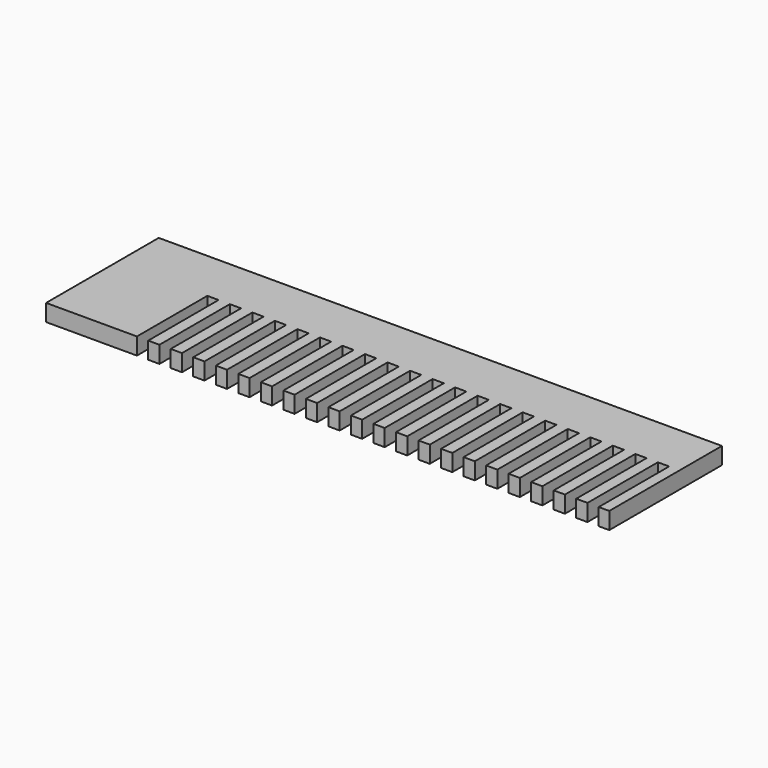
from build123d import *

# Parameters (mm, degrees)
F0_W     = 100
F0_H     = 25
F1_DEPTH = 3
F2_W     = 2
F2_H     = 21.208797
F3_DEPTH = 25


with BuildPart() as f1:
    # F0 (on Top) → F1 (new body)
    with BuildSketch(Plane.XY):
        with Locations((8.08065, 35.752659)):
            Rectangle(F0_W, F0_H)
    extrude(amount=F1_DEPTH)

    # F2 (on face) → F3 (cut)
    with BuildSketch(Plane.XY.offset(3)):
        with Locations((-24.790619, 28.26475)):
            Rectangle(F2_W, F2_H)
        with Locations((-20.790619, 28.26475)):
            Rectangle(F2_W, F2_H)
        with Locations((-16.790619, 28.26475)):
            Rectangle(F2_W, F2_H)
        with Locations((-12.790619, 28.26475)):
            Rectangle(F2_W, F2_H)
        with Locations((-8.790619, 28.26475)):
            Rectangle(F2_W, F2_H)
        with Locations((-4.790619, 28.26475)):
            Rectangle(F2_W, F2_H)
        with Locations((-0.790619, 28.26475)):
            Rectangle(F2_W, F2_H)
        with Locations((3.209381, 28.26475)):
            Rectangle(F2_W, F2_H)
        with Locations((7.209381, 28.26475)):
            Rectangle(F2_W, F2_H)
        with Locations((11.209381, 28.26475)):
            Rectangle(F2_W, F2_H)
        with Locations((15.209381, 28.26475)):
            Rectangle(F2_W, F2_H)
        with Locations((19.209381, 28.26475)):
            Rectangle(F2_W, F2_H)
        with Locations((23.209381, 28.26475)):
            Rectangle(F2_W, F2_H)
        with Locations((27.209381, 28.26475)):
            Rectangle(F2_W, F2_H)
        with Locations((31.209381, 28.26475)):
            Rectangle(F2_W, F2_H)
        with Locations((35.209381, 28.26475)):
            Rectangle(F2_W, F2_H)
        with Locations((39.209381, 28.26475)):
            Rectangle(F2_W, F2_H)
        with Locations((43.209381, 28.26475)):
            Rectangle(F2_W, F2_H)
        with Locations((47.209381, 28.26475)):
            Rectangle(F2_W, F2_H)
        with Locations((51.209381, 28.26475)):
            Rectangle(F2_W, F2_H)
        with Locations((55.209381, 28.26475)):
            Rectangle(F2_W, F2_H)
    extrude(amount=-F3_DEPTH, mode=Mode.SUBTRACT)


solid = f1.part
